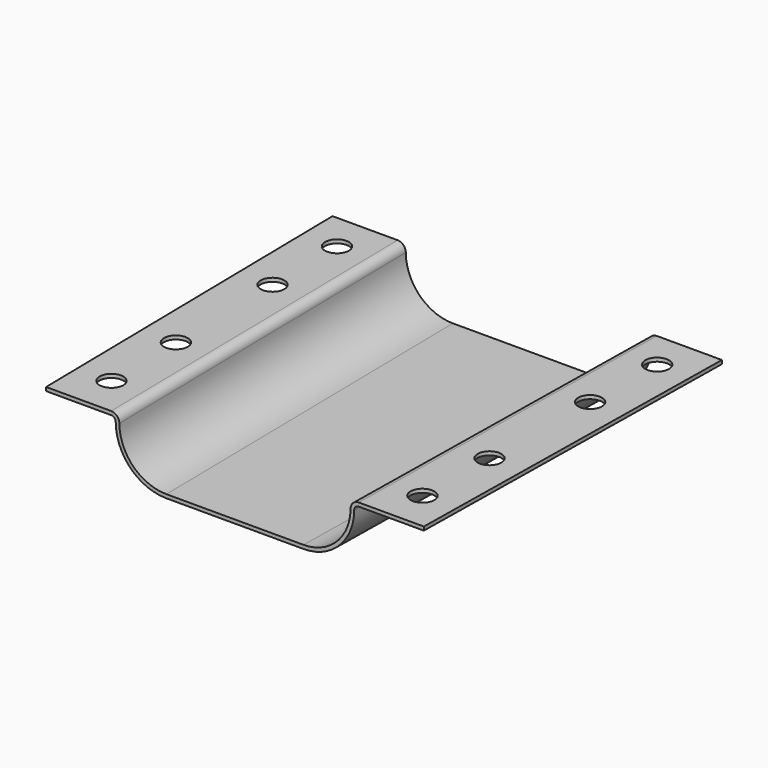
from build123d import *

# Parameters (mm, degrees)
F4_R     = 2.6
F5_DEPTH = 12.901


with BuildPart() as f3:
    # F0 (on Front) → F3 section 0
    with BuildSketch(Plane.XZ):
        with BuildLine():
            Line((-27.112, 12.1), (-41.362, 12.1))
            Line((-41.362, 12.1), (-41.362, 11.3))
            Line((-41.362, 11.3), (-27.112, 11.3))
            ThreePointArc((-27.112, 11.3), (-26.404893, 11.007107), (-26.112, 10.3))
            ThreePointArc((-26.112, 10.3), (-22.860885, 2.451115), (-15.012, -0.8))
            Line((-15.012, -0.8), (15.012, -0.8))
            ThreePointArc((15.012, -0.8), (22.860885, 2.451115), (26.112, 10.3))
            ThreePointArc((26.112, 10.3), (26.404893, 11.007107), (27.112, 11.3))
            Line((27.112, 11.3), (41.362, 11.3))
            Line((41.362, 11.3), (41.362, 12.1))
            Line((41.362, 12.1), (27.112, 12.1))
            ThreePointArc((27.112, 12.1), (25.839208, 11.572792), (25.312, 10.3))
            ThreePointArc((25.312, 10.3), (22.2952, 3.0168), (15.012, 0))
            Line((15.012, 0), (-15.012, 0))
            ThreePointArc((-15.012, 0), (-22.2952, 3.0168), (-25.312, 10.3))
            ThreePointArc((-25.312, 10.3), (-25.839208, 11.572792), (-27.112, 12.1))
        make_face()
    # F2 (on offset) → F3 section 1
    with BuildSketch(Plane.XZ.offset(-80)):
        with BuildLine():
            Line((-28.387997, 12.1), (-42.637997, 12.1))
            Line((-42.637997, 12.1), (-42.637997, 11.3))
            Line((-42.637997, 11.3), (-28.387997, 11.3))
            ThreePointArc((-28.387997, 11.3), (-27.680891, 11.007107), (-27.387997, 10.3))
            ThreePointArc((-27.387997, 10.3), (-24.136883, 2.451115), (-16.287997, -0.8))
            Line((-16.287997, -0.8), (16.288003, -0.8))
            ThreePointArc((16.288003, -0.8), (24.136888, 2.451115), (27.388003, 10.3))
            ThreePointArc((27.388003, 10.3), (27.680896, 11.007107), (28.388003, 11.3))
            Line((28.388003, 11.3), (42.638003, 11.3))
            Line((42.638003, 11.3), (42.638003, 12.1))
            Line((42.638003, 12.1), (28.388003, 12.1))
            ThreePointArc((28.388003, 12.1), (27.11521, 11.572792), (26.588003, 10.3))
            ThreePointArc((26.588003, 10.3), (23.571203, 3.0168), (16.288003, 0))
            Line((16.288003, 0), (-16.288003, 0))
            ThreePointArc((-16.288003, 0), (-23.571199, 3.016802), (-26.587997, 10.3))
            ThreePointArc((-26.587997, 10.3), (-27.115205, 11.572792), (-28.387997, 12.1))
        make_face()
    loft()

    # F4 (on face) → F5 (cut, through all)
    with BuildSketch(Plane.XY.offset(12.1)):
        with Locations((-35.055441, 71.748368)):
            Circle(F4_R)
        with Locations((-34.768377, 53.750657)):
            Circle(F4_R)
        with Locations((-34.337781, 26.754091)):
            Circle(F4_R)
        with Locations((-34.050717, 8.75638)):
            Circle(F4_R)
        with BuildLine():
            ThreePointArc((36.650386, 8.714916), (36.650634, 8.735647), (36.650717, 8.75638))
            ThreePointArc((36.650717, 8.75638), (31.4508, 8.777113), (36.650386, 8.714916))
        make_face()
        with BuildLine():
            ThreePointArc((36.93745, 26.712626), (36.937698, 26.733358), (36.937781, 26.754091))
            ThreePointArc((36.937781, 26.754091), (31.737864, 26.774824), (36.93745, 26.712626))
        make_face()
        with BuildLine():
            ThreePointArc((37.368047, 53.709193), (37.368295, 53.729924), (37.368377, 53.750657))
            ThreePointArc((37.368377, 53.750657), (32.16846, 53.77139), (37.368047, 53.709193))
        make_face()
        with BuildLine():
            ThreePointArc((37.655111, 71.706903), (37.655359, 71.727635), (37.655441, 71.748368))
            ThreePointArc((37.655441, 71.748368), (32.455524, 71.769101), (37.655111, 71.706903))
        make_face()
    extrude(amount=-F5_DEPTH, mode=Mode.SUBTRACT)


solid = f3.part
